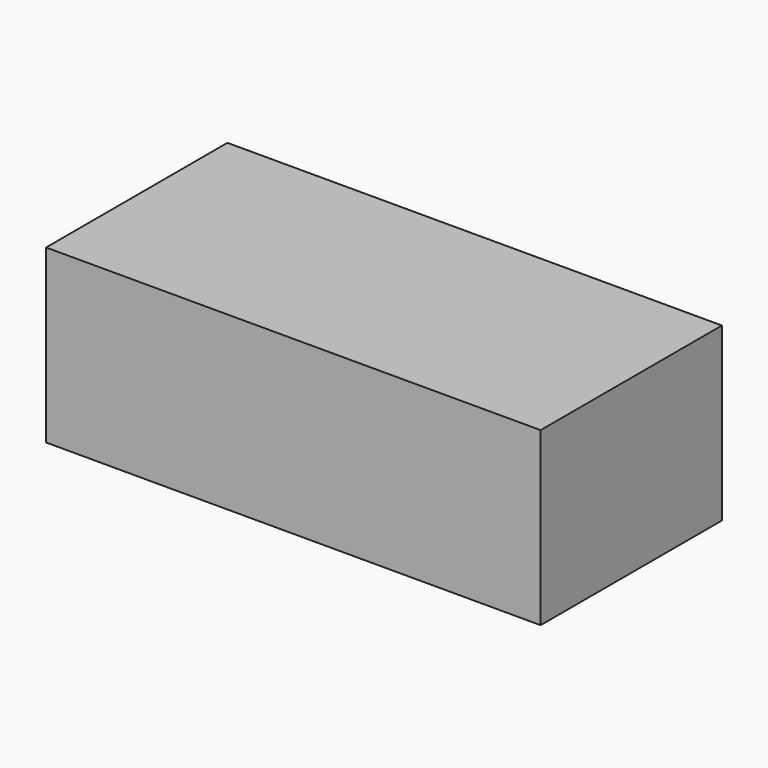
from build123d import *

# Parameters (mm, degrees)
F0_W     = 72
F0_H     = 33
F1_DEPTH = 25
F2_T     = -3
F3_R     = 2.5
F3_W     = 3
F3_H     = 27
F4_DEPTH = 10


with BuildPart() as f1:
    # F0 (on Top) → F1 (new body)
    with BuildSketch(Plane.XY):
        Rectangle(F0_W, F0_H)
    extrude(amount=F1_DEPTH)

    # F2
    f2_openings = [f1.faces().sort_by_distance(p)[0] for p in [
        (0, 0, 0),
    ]]
    offset(amount=F2_T, openings=f2_openings)

    # F3 (on face) → F4 (join)
    with BuildSketch(Plane(origin=(0, 0, 22), x_dir=(1, 0, 0), z_dir=(0, 0, -1))):
        Circle(F3_R)
        with Locations((-21.5, 0)):
            Rectangle(F3_W, F3_H)
        with Locations((21.5, 0)):
            Rectangle(F3_W, F3_H)
    extrude(amount=F4_DEPTH)


solid = f1.part
